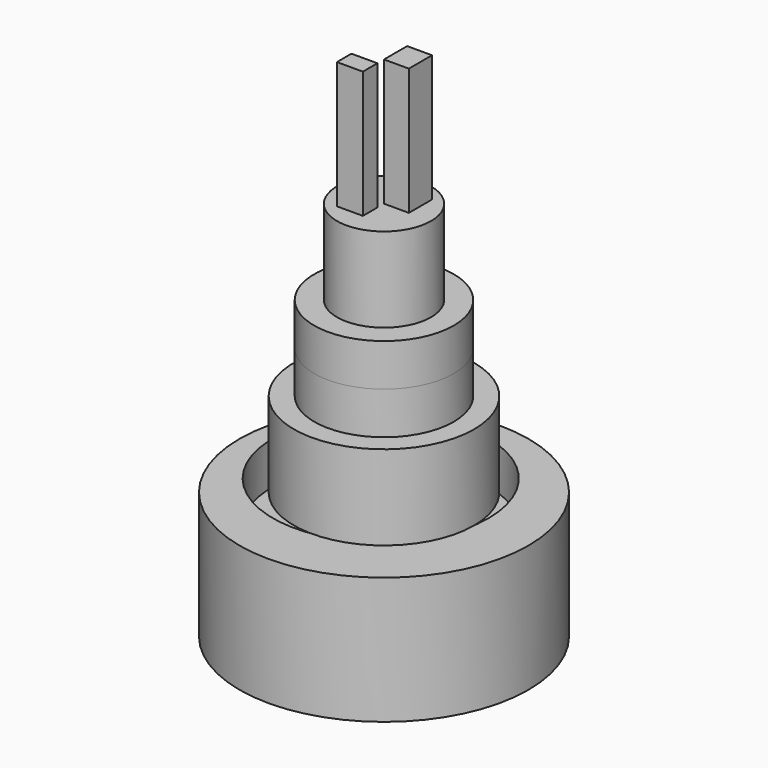
from build123d import *

# Parameters (mm, degrees)
F0_R      = 86.707201
F1_DEPTH  = 50.8
F3_DEPTH  = 25.4
F2_R      = 86.707201
F2_R_2    = 64.721918
F4_DEPTH  = 25.4
F5_R      = 54.058936
F6_DEPTH  = 50.8
F7_R      = 41.835209
F8_DEPTH  = 50.8
F9_DEPTH  = 25.4
F10_R     = 28.209082
F11_DEPTH = 50.8
F12_W     = 14.917269
F12_H     = 17.363571
F13_DEPTH = 76.2
F14_W     = 15.579686
F14_H     = 10.89616
F15_DEPTH = 76.2


with BuildPart() as f1:
    # F0 (on Top) → F1 (new body)
    with BuildSketch(Plane.XY):
        with Locations((-14.917269, 15.850663)):
            Circle(F0_R)
    extrude(amount=F1_DEPTH)

    # F0 (on Top) → F3 (join)
    with BuildSketch(Plane.XY):
        with Locations((-14.917269, 15.850663)):
            Circle(F0_R)
    extrude(amount=F3_DEPTH)

    # F2 (on face) → F4 (join)
    with BuildSketch(Plane.XY.offset(50.8)):
        with Locations((-14.917269, 15.850663)):
            Circle(F2_R)
        with Locations((-24.875257, 25.835115)):
            Circle(F2_R_2, mode=Mode.SUBTRACT)
    extrude(amount=F4_DEPTH)


with BuildPart() as f6:
    # F5 (on face) → F6 (new body)
    with BuildSketch(Plane.XY.offset(76.2)):
        with Locations((-14.917269, 15.850663)):
            Circle(F5_R)
    extrude(amount=F6_DEPTH)


with BuildPart() as f8:
    # F7 (on face) → F8 (new body)
    with BuildSketch(Plane.XY.offset(127)):
        with Locations((-14.917269, 15.850663)):
            Circle(F7_R)
    extrude(amount=F8_DEPTH)

    # F10 (on face) → F11 (join)
    with BuildSketch(Plane.XY.offset(177.8)):
        with Locations((-14.917269, 15.850663)):
            Circle(F10_R)
    extrude(amount=F11_DEPTH)

    # F12 (on face) → F13 (join)
    with BuildSketch(Plane.XY.offset(228.6)):
        with Locations((-7.458634, 24.532448)):
            Rectangle(F12_W, F12_H)
    extrude(amount=F13_DEPTH)

    # F14 (on face) → F15 (join)
    with BuildSketch(Plane.XY.offset(228.6)):
        with Locations((-22.707112, 5.44808)):
            Rectangle(F14_W, F14_H)
    extrude(amount=F15_DEPTH)


with BuildPart() as f9:
    # F7 (on face) → F9 (new body)
    with BuildSketch(Plane.XY.offset(127)):
        with Locations((-14.917269, 15.850663)):
            Circle(F7_R)
    extrude(amount=F9_DEPTH)


solid = Compound([f1.part, f6.part, f8.part, f9.part])
